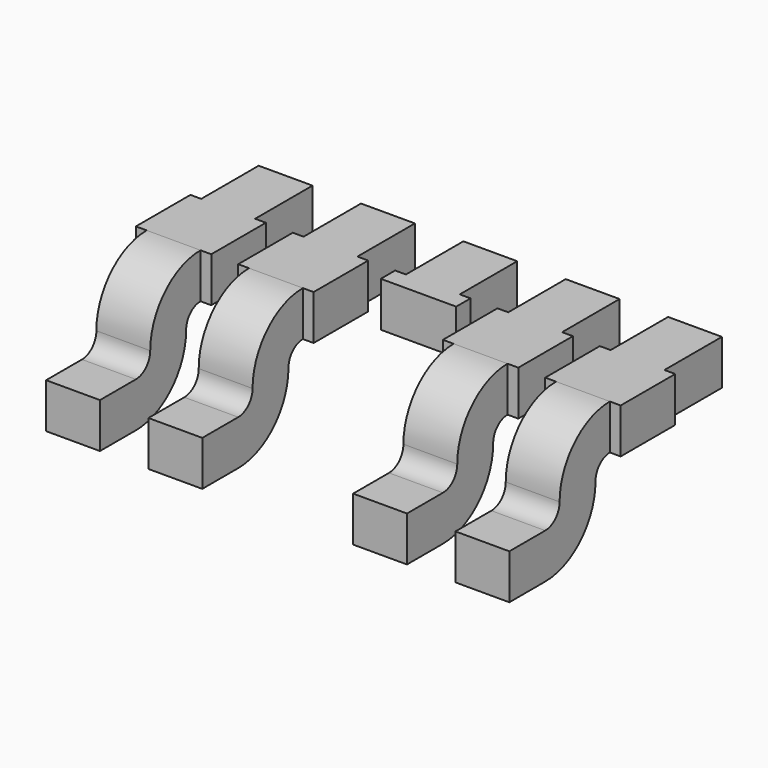
from build123d import *

# Parameters (mm, degrees)
SKETCH002_W   = 1.034226
SKETCH002_H   = 1.796968
PAD002_DEPTH  = 1.96
PAD_DEPTH     = 0.3
SKETCH001_W   = 0.76
SKETCH001_H   = 0.5
PAD001_DEPTH  = 0.12
ARRAY_X_COUNT = 5
ARRAY_X_PITCH = 1.14


with BuildPart() as pin_3_cutter_pad:
    # Sketch002 → Pad002 (new body)
    with BuildSketch(Plane.XZ.offset(4.99)):
        with Locations((-0.000362, 0.725621)):
            Rectangle(SKETCH002_W, SKETCH002_H)
    extrude(amount=-PAD002_DEPTH)


with BuildPart() as lead_bulge_pad:
    # Sketch → Pad (new body)
    with BuildSketch(Plane.YZ):
        with BuildLine():
            Line((-4.99, 0), (-4.99, 0.5))
            Line((-4.99, 0.5), (-4.49, 0.5))
            ThreePointArc((-4.49, 0.5), (-4.348579, 0.558579), (-4.29, 0.7))
            ThreePointArc((-3.59, 1.4), (-4.084975, 1.194975), (-4.29, 0.7))
            Line((-3.59, 1.4), (-2.03, 1.4))
            Line((-2.03, 1.4), (-2.03, 0.9))
            Line((-2.03, 0.9), (-3.59, 0.9))
            ThreePointArc((-3.59, 0.9), (-3.731421, 0.841421), (-3.79, 0.7))
            ThreePointArc((-4.489991, 0), (-3.995022, 0.205028), (-3.79, 0.7))
            Line((-4.99, 0), (-4.489991, 0))
        make_face()
    extrude(amount=PAD_DEPTH)

    # Sketch001 → Pad001 (new body)
    with BuildSketch(Plane.YZ.offset(0.3)):
        with Locations((-3.21, 1.15)):
            Rectangle(SKETCH001_W, SKETCH001_H)
    extrude(amount=PAD001_DEPTH)


with BuildPart() as lead_bulge_mirror:
    # Part__Mirroring: instance of Lead Bulge pad
    add(lead_bulge_pad.part.mirror(Plane(origin=(0, 0, 0), x_dir=(0, -1, 0), z_dir=(1, 0, 0))))


with BuildPart() as leads:
    # Fusion base: copy of Lead Bulge pad
    add(lead_bulge_pad.part)

    # Fusion: union Lead Bulge mirror
    add(lead_bulge_mirror.part)


with BuildPart() as leads_1:
    # Fusion placement: moved
    add(leads.part.moved(Location((-2.28, 0, 0))))

    # Array X: LEADS ×5


with BuildPart() as leads_2:
    add(leads_1.part)
    with Locations(*[(i * ARRAY_X_PITCH, 0, 0) for i in range(1, ARRAY_X_COUNT)]):
        add(leads_1.part)

    # Cut: cut Pin 3 Cutter pad
    add(pin_3_cutter_pad.part, mode=Mode.SUBTRACT)


solid = leads_2.part
